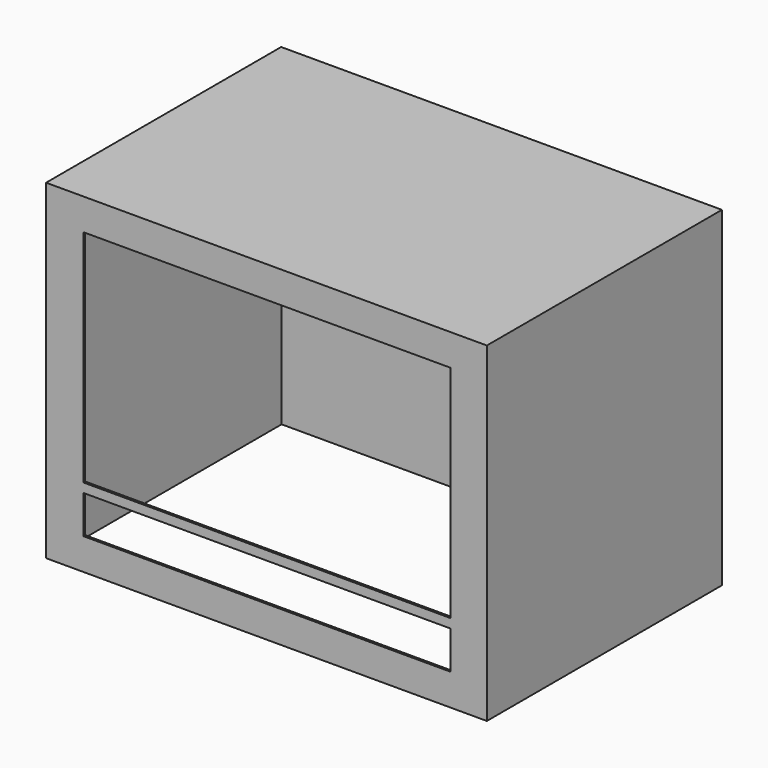
from build123d import *

# Parameters (mm, degrees)
F0_W     = 600
F0_H     = 450
F0_W_2   = 500
F0_H_2   = 51.817134
F0_H_3   = 300
F1_DEPTH = 400
F2_T     = -3
F3_DEPTH = 3


with BuildPart() as f1:
    # F0 (on Front) → F1 (new body)
    with BuildSketch(Plane.XZ):
        Rectangle(F0_W, F0_H)
        with Locations((0.704244, -156.171255)):
            Rectangle(F0_W_2, F0_H_2, mode=Mode.SUBTRACT)
        with Locations((0.704244, 32.232778)):
            Rectangle(F0_W_2, F0_H_3, mode=Mode.SUBTRACT)
        with Locations((0.704244, 32.232778)):
            Rectangle(F0_W_2, F0_H_3)
        with Locations((0.704244, -156.171255)):
            Rectangle(F0_W_2, F0_H_2)
    extrude(amount=-F1_DEPTH)

    # F2
    f2_openings = [f1.faces().sort_by_distance(p)[0] for p in [
        (0, 200, -225),
    ]]
    offset(amount=F2_T, openings=f2_openings)

    # F0 (on Front) → F3 (cut)
    with BuildSketch(Plane.XZ):
        with Locations((0.704244, 32.232778)):
            Rectangle(F0_W_2, F0_H_3)
        with Locations((0.704244, -156.171255)):
            Rectangle(F0_W_2, F0_H_2)
    extrude(amount=-F3_DEPTH, mode=Mode.SUBTRACT)


solid = f1.part
